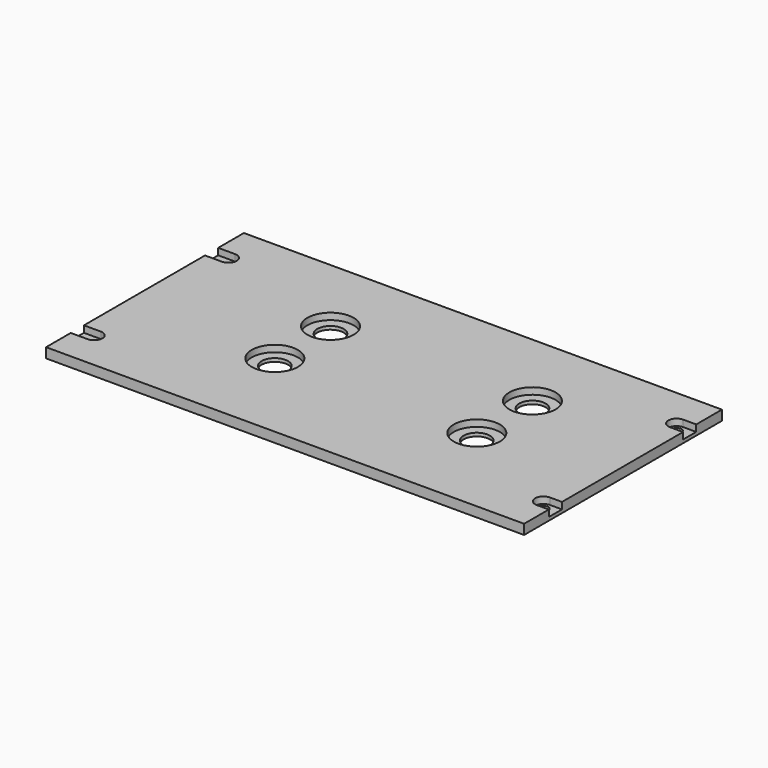
from build123d import *

# Parameters (mm, degrees)
F0_W     = 145
F0_H     = 75
F0_R     = 1.5
F0_R_2   = 4
F1_DEPTH = 3
F2_R     = 7
F3_DEPTH = 2


with BuildPart() as f1:
    # F0 (on Top) → F1 (new body)
    with BuildSketch(Plane.XY):
        with Locations((72.5, -37.5)):
            Rectangle(F0_W, F0_H)
        with Locations((5.110198, -63.145563)):
            Circle(F0_R, mode=Mode.SUBTRACT)
        with Locations((45.909047, -45.651395)):
            Circle(F0_R_2, mode=Mode.SUBTRACT)
        with Locations((141.360894, -63.145511)):
            Circle(F0_R, mode=Mode.SUBTRACT)
        with Locations((107.167281, -45.651395)):
            Circle(F0_R_2, mode=Mode.SUBTRACT)
        with Locations((45.909047, -24.54808)):
            Circle(F0_R_2, mode=Mode.SUBTRACT)
        with Locations((5.110172, -12.241635)):
            Circle(F0_R, mode=Mode.SUBTRACT)
        with Locations((107.167281, -24.54808)):
            Circle(F0_R_2, mode=Mode.SUBTRACT)
        with Locations((141.062453, -12.241724)):
            Circle(F0_R, mode=Mode.SUBTRACT)
    extrude(amount=F1_DEPTH)

    # F2 (on face) → F3 (cut)
    with BuildSketch(Plane.XY.offset(3)):
        with BuildLine():
            Line((-4.892084, -14.741702), (5.110175, -14.741702))
            ThreePointArc((5.110175, -14.741702), (7.610175, -12.241702), (5.110175, -9.741702))
            Line((5.110175, -9.741702), (-4.892084, -9.741702))
            Line((-4.892084, -9.741702), (-4.892084, -14.741702))
        make_face()
        with BuildLine():
            Line((-4.892084, -65.645501), (5.110175, -65.645501))
            ThreePointArc((5.110175, -65.645501), (7.610175, -63.145501), (5.110175, -60.645501))
            Line((5.110175, -60.645501), (-4.892084, -60.645501))
            Line((-4.892084, -60.645501), (-4.892084, -65.645501))
        make_face()
        with BuildLine():
            Line((149.460912, -9.741702), (141.062498, -9.741702))
            ThreePointArc((141.062498, -9.741702), (138.562498, -12.241702), (141.062498, -14.741702))
            Line((141.062498, -14.741702), (149.460912, -14.741702))
            Line((149.460912, -14.741702), (149.460912, -9.741702))
        make_face()
        with BuildLine():
            Line((150.567517, -60.645501), (141.360864, -60.645501))
            ThreePointArc((141.360864, -60.645501), (138.860864, -63.145501), (141.360864, -65.645501))
            Line((141.360864, -65.645501), (150.567517, -65.645501))
            Line((150.567517, -65.645501), (150.567517, -60.645501))
        make_face()
        with Locations((45.909047, -24.54808)):
            Circle(F2_R)
        with Locations((45.909047, -45.651395)):
            Circle(F2_R)
        with Locations((107.167281, -24.54808)):
            Circle(F2_R)
        with Locations((107.167281, -45.651395)):
            Circle(F2_R)
    extrude(amount=-F3_DEPTH, mode=Mode.SUBTRACT)


solid = f1.part
